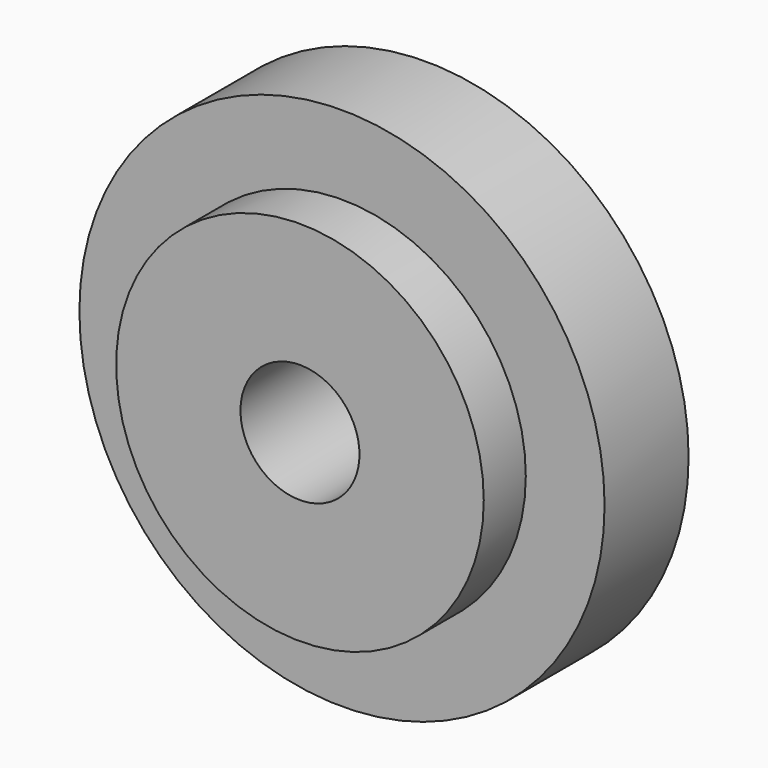
from build123d import *

# Parameters (mm, degrees)
F0_R     = 15
F1_DEPTH = 6
F2_R     = 10.5
F3_DEPTH = 3
F5_D     = 6.8
F5_DEPTH = 10


with BuildPart() as f1:
    # F0 (on Front) → F1 (new body)
    with BuildSketch(Plane.XZ):
        Circle(F0_R)
    extrude(amount=F1_DEPTH)

    # F2 (on face) → F3 (join)
    with BuildSketch(Plane.XZ.offset(6)):
        Circle(F2_R)
    extrude(amount=F3_DEPTH)

    # F5
    with Locations(Plane.XZ.offset(9)):
        with Locations((0, 0)):
            Hole(F5_D / 2, depth=F5_DEPTH)


solid = f1.part
